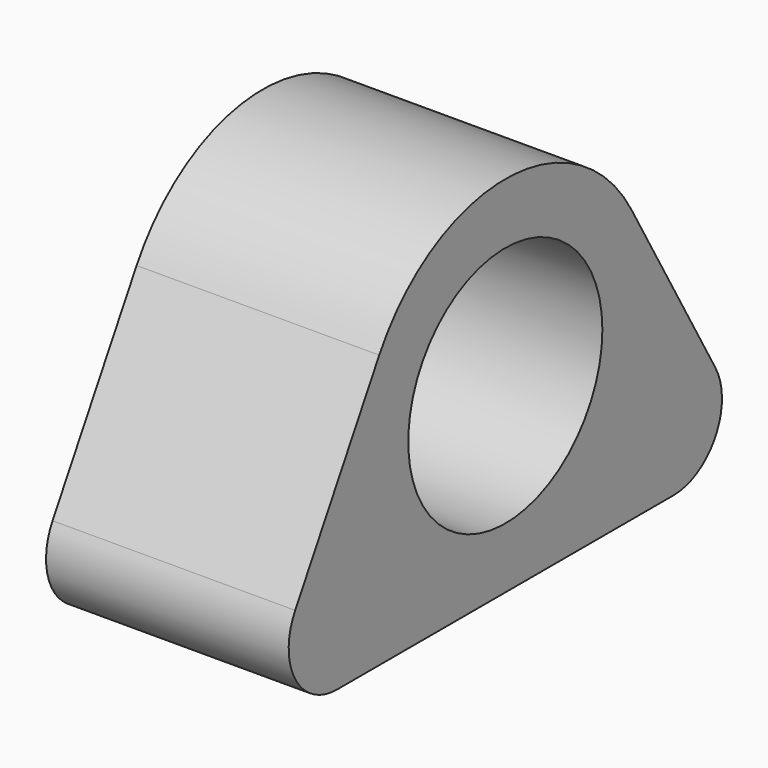
from build123d import *

# Parameters (mm, degrees)
F0_R     = 12.7
F1_DEPTH = 25.4


with BuildPart() as f1:
    # F0 (on Right) → F1 (new body)
    with BuildSketch(Plane.YZ):
        with BuildLine():
            ThreePointArc((0, -19.05), (13.470384, -13.470384), (19.05, 0))
            ThreePointArc((19.05, 0), (18.400887, 4.930503), (16.497784, 9.525))
            ThreePointArc((16.497784, 9.525), (0, 19.05), (-16.497784, 9.525))
            ThreePointArc((-16.497784, 9.525), (-16.497784, -9.525), (0, -19.05))
        make_face()
        Circle(F0_R, mode=Mode.SUBTRACT)
        with BuildLine():
            ThreePointArc((16.497784, 9.525), (18.400887, 4.930503), (19.05, 0))
            ThreePointArc((19.05, 0), (13.470384, -13.470384), (0, -19.05))
            Line((0, -19.05), (21.997045, -19.05))
            ThreePointArc((21.997045, -19.05), (27.496307, -15.875), (27.496307, -9.525))
            Line((27.496307, -9.525), (16.497784, 9.525))
        make_face()
        with BuildLine():
            Line((-21.997045, -19.05), (0, -19.05))
            ThreePointArc((0, -19.05), (-16.497784, -9.525), (-16.497784, 9.525))
            Line((-16.497784, 9.525), (-27.496307, -9.525))
            ThreePointArc((-27.496307, -9.525), (-27.496307, -15.875), (-21.997045, -19.05))
        make_face()
    extrude(amount=F1_DEPTH)


solid = f1.part
